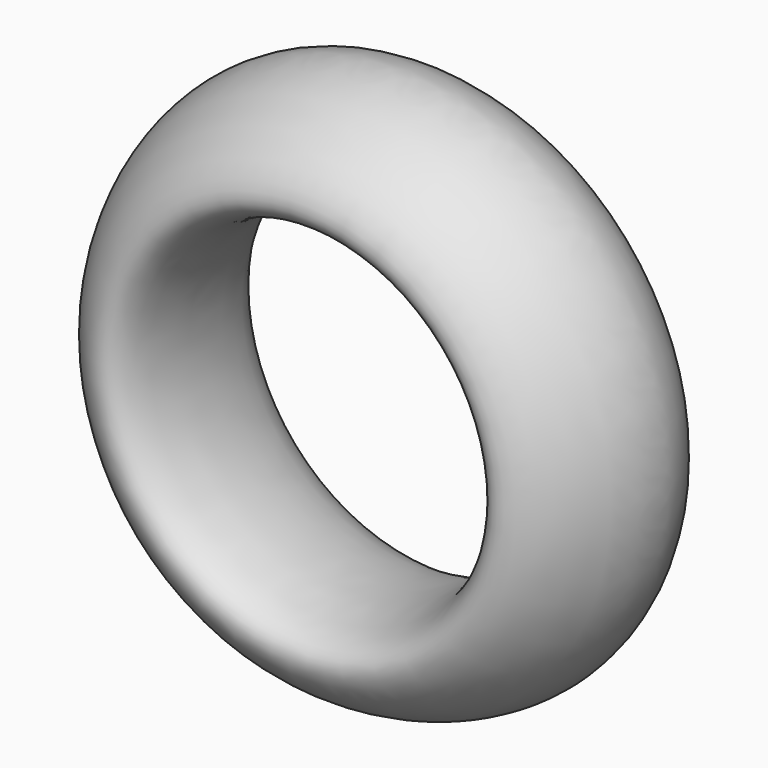
from build123d import *


with BuildPart() as f1:
    # F0 (on Top) → F1 (revolve)
    with BuildSketch(Plane.XY):
        with BuildLine():
            add(Edge.make_bspline(
                [(-40.3520837426, 34.1324061155), (-41.2365518574, 25.6725766638), (-22.8692500719, 0.9629855167), (-23.0790055521, 51.9215542157), (-39.6361949746, 40.9797947134), (-40.3520837426, 34.1324061155)],
                knots=[0, 0, 0, 0, 0.3445428034, 0.7211269474, 1, 1, 1, 1], degree=3))
        make_face()
    revolve(axis=Axis((0, -0.8581392467, 0), (0, -1, 0)))


solid = f1.part
